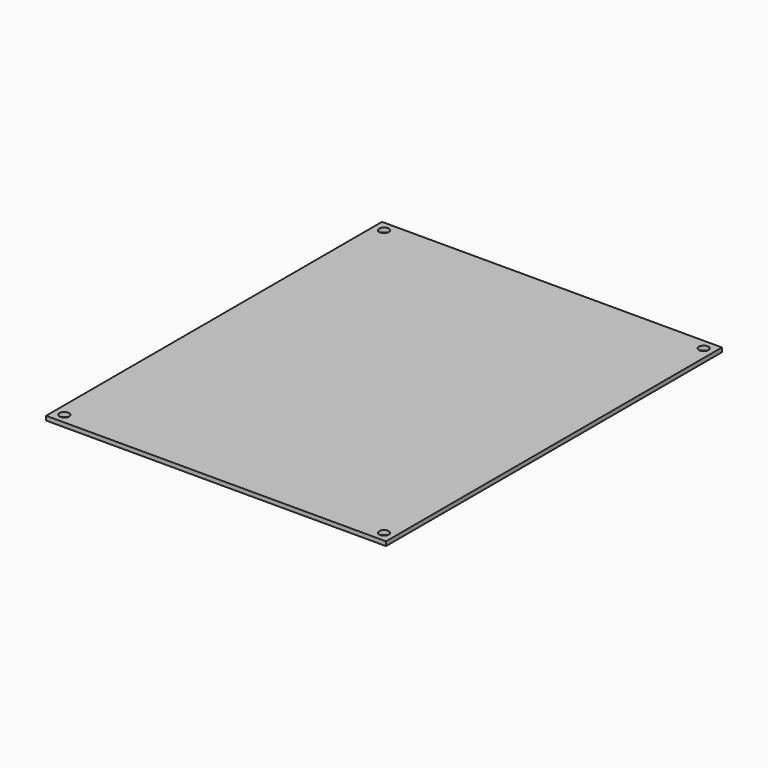
from build123d import *

# Parameters (mm, degrees)
F0_W     = 127.62
F0_H     = 157.62
F1_DEPTH = 1.6
F2_D     = 3.6


with BuildPart() as f1:
    # F0 (on Top) → F1 (new body)
    with BuildSketch(Plane.XY):
        with Locations((63.81, 78.81)):
            Rectangle(F0_W, F0_H)
    extrude(amount=F1_DEPTH)

    # F2 (through all)
    with Locations(Plane(origin=(0, 0, 0), x_dir=(1, 0, 0), z_dir=(0, 0, -1))):
        with Locations((3.81, -153.81), (123.81, -153.81), (3.81, -3.81), (123.81, -3.81)):
            Hole(F2_D / 2)


solid = f1.part
